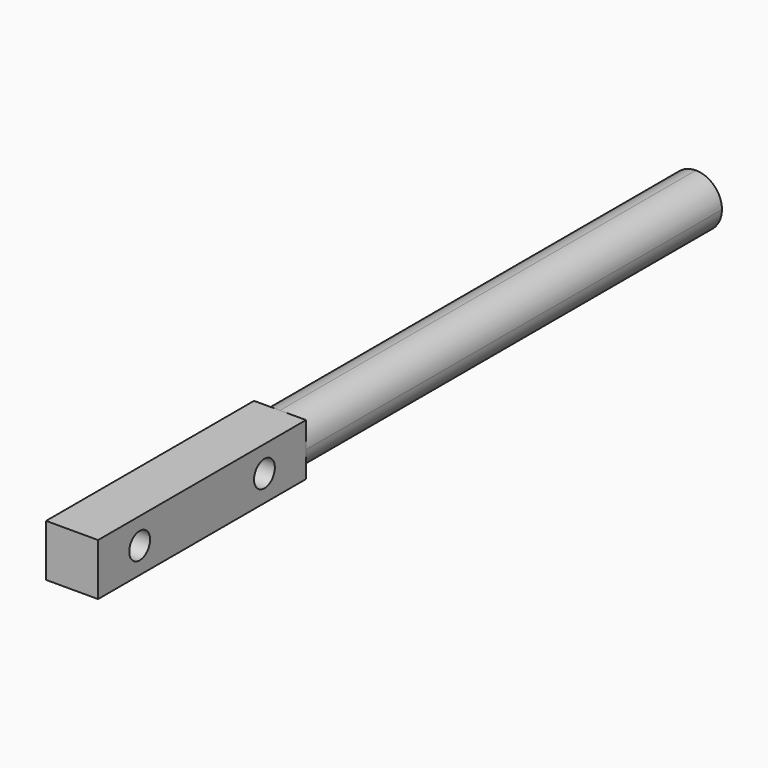
from build123d import *

# Parameters (mm, degrees)
F0_W     = 12.7
F0_H     = 12.7
F1_DEPTH = 63.5
F2_R     = 3.175
F3_DEPTH = 12.701
F5_DEPTH = 127


with BuildPart() as f1:
    # F0 (on Front) → F1 (new body)
    with BuildSketch(Plane.XZ):
        Rectangle(F0_W, F0_H)
    extrude(amount=F1_DEPTH)

    # F2 (on face) → F3 (cut, through all)
    with BuildSketch(Plane.YZ.offset(6.35)):
        with Locations((-50.8, 0)):
            Circle(F2_R)
        with Locations((-12.7, 0)):
            Circle(F2_R)
    extrude(amount=-F3_DEPTH, mode=Mode.SUBTRACT)

    # F4 (on face) → F5 (join)
    with BuildSketch(Plane(origin=(0, 0, 0), x_dir=(-1, 0, 0), z_dir=(0, 1, 0))):
        with BuildLine():
            ThreePointArc((0, -6.35), (4.490128, -4.490128), (6.35, 0))
            ThreePointArc((6.35, 0), (4.490128, 4.490128), (0, 6.35))
            ThreePointArc((0, 6.35), (-4.490128, 4.490128), (-6.35, 0))
            ThreePointArc((-6.35, 0), (-4.490128, -4.490128), (0, -6.35))
        make_face()
    extrude(amount=F5_DEPTH)


solid = f1.part
